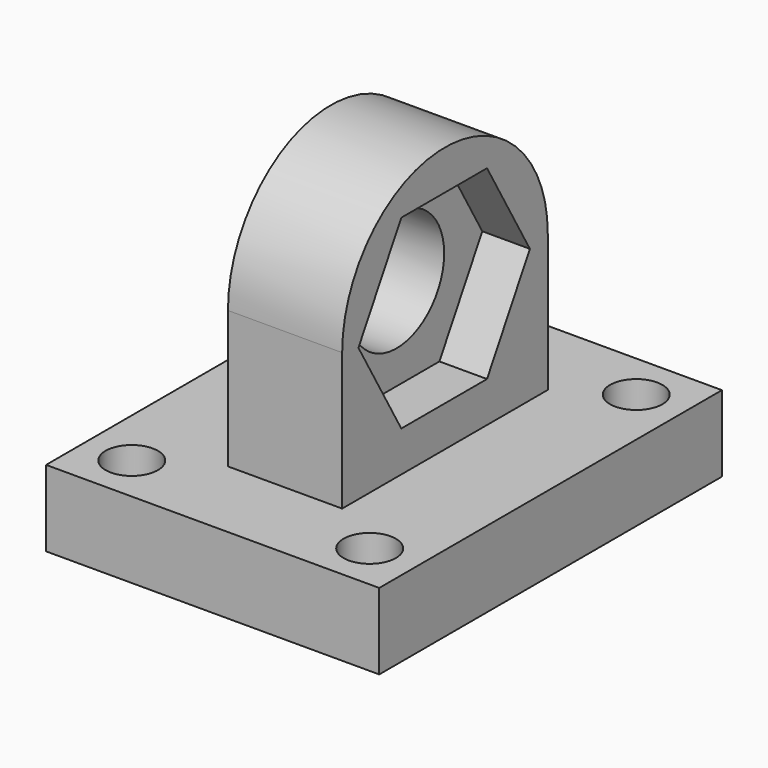
from build123d import *

# Parameters (mm, degrees)
SKETCH001_W            = 17.5
SKETCH001_H            = 22.5
SKETCH001_R            = 2.75
PAD_DEPTH              = 8
SKETCH001_MIRRORED_2_W = 17.5
SKETCH001_MIRRORED_2_H = 22.5
SKETCH001_MIRRORED_2_R = 2.75
PAD_MIRRORED_2_DEPTH   = 8
SKETCH003_W            = 12
SKETCH003_H            = 27
PAD001_DEPTH           = 28
POCKET_DEPTH           = 56
SKETCH006_R            = 6.25
POCKET001_DEPTH        = 23.820636
POCKET001_DEPTH_BACK   = -11.181364
POCKET002_DEPTH        = 5


with BuildPart() as part:
    # Sketch001 → Pad (new body)
    with BuildSketch(Plane.XY):
        with Locations((8.75, 11.25)):
            Rectangle(SKETCH001_W, SKETCH001_H)
        with Locations((12.5, 17.5)):
            Circle(SKETCH001_R, mode=Mode.SUBTRACT)
    pad = extrude(amount=PAD_DEPTH)

    # Sketch001 Mirrored 2 → Pad Mirrored 2 (add)
    with BuildSketch(Plane(origin=(0, 0, 0), x_dir=(-1, 0, 0), z_dir=(0, 0, -1))):
        with Locations((8.75, 11.25)):
            Rectangle(SKETCH001_MIRRORED_2_W, SKETCH001_MIRRORED_2_H)
        with Locations((12.5, 17.5)):
            Circle(SKETCH001_MIRRORED_2_R, mode=Mode.SUBTRACT)
    pad_mirrored_2 = extrude(amount=-PAD_MIRRORED_2_DEPTH)

    # Mirrored001: Pad, Pad Mirrored 2 across Sketch001 H_Axis
    add(pad.mirror(Plane.ZX))
    add(pad_mirrored_2.mirror(Plane.ZX))

    # Sketch003 (on Face12 of MultiTransform) → Pad001 (join)
    with BuildSketch(Plane.XY.offset(8)):
        with Locations((0.319636, 0.107343)):
            Rectangle(SKETCH003_W, SKETCH003_H)
    extrude(amount=PAD001_DEPTH)

    # Sketch004 (on Face23 of Pad001) → Pocket (cut)
    with BuildSketch(Plane(origin=(-5.680364, 0, 0), x_dir=(0, -1, 0), z_dir=(-1, 0, 0))):
        with BuildLine():
            ThreePointArc((13.392657, 22.424454), (-0.107343, 35.924454), (-13.607343, 22.424454))
            Line((-13.607343, 22.424454), (-13.627651, 49.129635))
            Line((-13.627651, 49.129635), (14.64682, 49.129635))
            Line((14.64682, 49.129635), (13.392657, 22.424454))
        make_face()
    extrude(amount=-POCKET_DEPTH, mode=Mode.SUBTRACT)

    # Sketch006 (on Face12 of Pocket) → Pocket001 (cut, two sides)
    with BuildSketch(Plane.YZ.offset(6.319636)) as pocket001_sk:
        with Locations((0, 22)):
            Circle(SKETCH006_R)
    extrude(amount=-POCKET001_DEPTH, mode=Mode.SUBTRACT)
    extrude(pocket001_sk.sketch, amount=-POCKET001_DEPTH_BACK, mode=Mode.SUBTRACT)

    # Sketch007 (on Face12 of Pocket001) → Pocket002 (cut)
    with BuildSketch(Plane.YZ.offset(6.319636)):
        Polygon((5.629165, 12.25), (11.25833, 22), (5.629165, 31.75), (-5.629165, 31.75), (-11.25833, 22), (-5.629165, 12.25), align=None)
    extrude(amount=-POCKET002_DEPTH, mode=Mode.SUBTRACT)


solid = part.part
